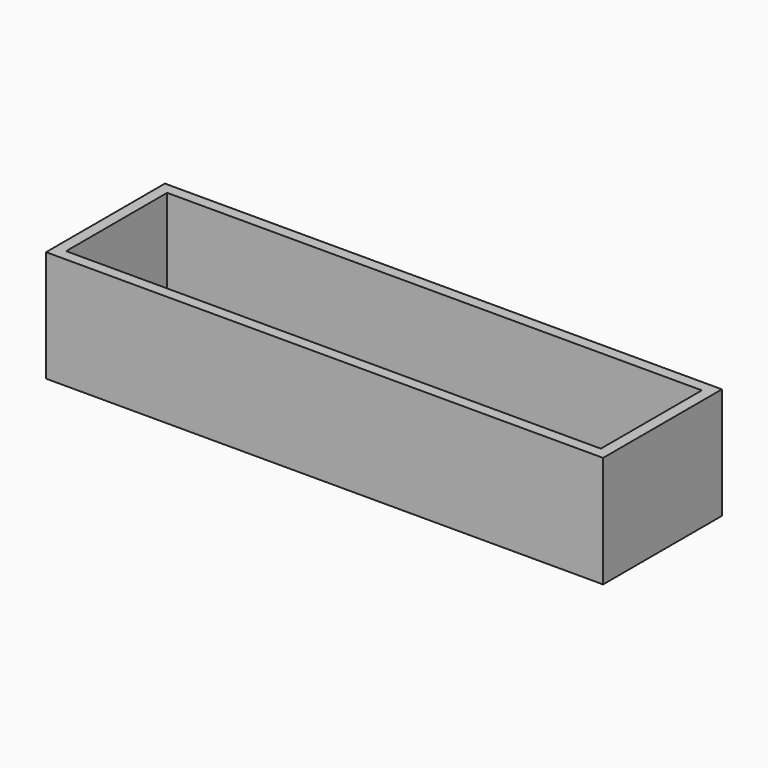
from build123d import *

# Parameters (mm, degrees)
F0_W     = 150
F0_H     = 40
F1_DEPTH = 30
F3_W     = 144
F3_H     = 34
F4_DEPTH = 27


with BuildPart() as f1:
    # F0 (on Top) → F1 (new body)
    with BuildSketch(Plane.XY):
        Rectangle(F0_W, F0_H)
    extrude(amount=F1_DEPTH)

    # F3 (on offset) → F4 (cut)
    with BuildSketch(Plane.XY.offset(3)):
        Rectangle(F3_W, F3_H)
    extrude(amount=F4_DEPTH, mode=Mode.SUBTRACT)


solid = f1.part
